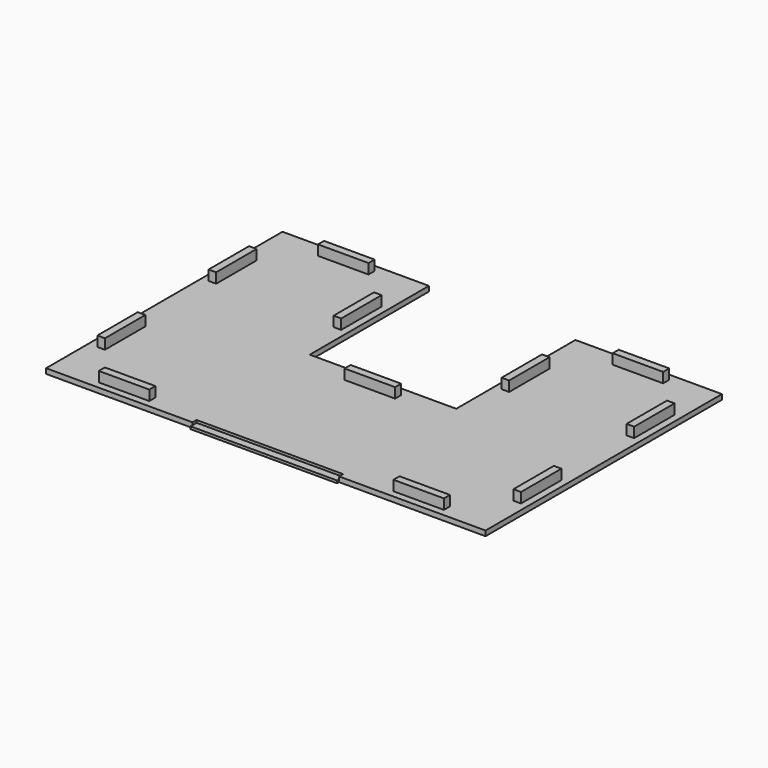
from build123d import *

# Parameters (mm, degrees)
BOX013_W     = 20
BOX013_H     = 3
BOX013_DEPTH = 6
BOX012_W     = 20
BOX012_H     = 3
BOX012_DEPTH = 6
BOX011_W     = 20
BOX011_H     = 3
BOX011_DEPTH = 6
BOX010_W     = 20
BOX010_H     = 3
BOX010_DEPTH = 6
BOX009_W     = 20
BOX009_H     = 3
BOX009_DEPTH = 6
BOX008_W     = 20
BOX008_H     = 3
BOX008_DEPTH = 6
BOX007_W     = 20
BOX007_H     = 3
BOX007_DEPTH = 6
BOX006_W     = 20
BOX006_H     = 3
BOX006_DEPTH = 6
BOX005_W     = 20
BOX005_H     = 3
BOX005_DEPTH = 6
BOX004_W     = 20
BOX004_H     = 3
BOX004_DEPTH = 6
BOX003_W     = 20
BOX003_H     = 3
BOX003_DEPTH = 6
BOX002_W     = 58
BOX002_H     = 117
BOX002_DEPTH = 2
BOX001_W     = 58
BOX001_H     = 117
BOX001_DEPTH = 2
BOX_W        = 58
BOX_H        = 56
BOX_DEPTH    = 2
BOX014_W     = 58
BOX014_H     = 3
BOX014_DEPTH = 1


with BuildPart() as cube013:
    # Box013 → Box013 (new body)
    with BuildSketch(Plane(origin=(77, 51.5, 0), x_dir=(1, 0, 0), z_dir=(0, 0, 1))):
        with Locations((10, 1.5)):
            Rectangle(BOX013_W, BOX013_H)
    extrude(amount=BOX013_DEPTH)


with BuildPart() as cube012:
    # Box012 → Box012 (new body)
    with BuildSketch(Plane(origin=(3.5, 41, 0), x_dir=(0, -1, 0), z_dir=(0, 0, 1))):
        with Locations((10, 1.5)):
            Rectangle(BOX012_W, BOX012_H)
    extrude(amount=BOX012_DEPTH)


with BuildPart() as cube011:
    # Box011 → Box011 (new body)
    with BuildSketch(Plane(origin=(2.75, 97, 0), x_dir=(0, -1, 0), z_dir=(0, 0, 1))):
        with Locations((10, 1.5)):
            Rectangle(BOX011_W, BOX011_H)
    extrude(amount=BOX011_DEPTH)


with BuildPart() as cube010:
    # Box010 → Box010 (new body)
    with BuildSketch(Plane(origin=(52.25, 97, 0), x_dir=(0, -1, 0), z_dir=(0, 0, 1))):
        with Locations((10, 1.5)):
            Rectangle(BOX010_W, BOX010_H)
    extrude(amount=BOX010_DEPTH)


with BuildPart() as cube009:
    # Box009 → Box009 (new body)
    with BuildSketch(Plane(origin=(168.25, 97, 0), x_dir=(0, -1, 0), z_dir=(0, 0, 1))):
        with Locations((10, 1.5)):
            Rectangle(BOX009_W, BOX009_H)
    extrude(amount=BOX009_DEPTH)


with BuildPart() as cube008:
    # Box008 → Box008 (new body)
    with BuildSketch(Plane(origin=(168.25, 41, 0), x_dir=(0, -1, 0), z_dir=(0, 0, 1))):
        with Locations((10, 1.5)):
            Rectangle(BOX008_W, BOX008_H)
    extrude(amount=BOX008_DEPTH)


with BuildPart() as cube007:
    # Box007 → Box007 (new body)
    with BuildSketch(Plane(origin=(118.75, 97, 0), x_dir=(0, -1, 0), z_dir=(0, 0, 1))):
        with Locations((10, 1.5)):
            Rectangle(BOX007_W, BOX007_H)
    extrude(amount=BOX007_DEPTH)


with BuildPart() as cube006:
    # Box006 → Box006 (new body)
    with BuildSketch(Plane(origin=(135.333, 111.25, 0), x_dir=(1, 0, 0), z_dir=(0, 0, 1))):
        with Locations((10, 1.5)):
            Rectangle(BOX006_W, BOX006_H)
    extrude(amount=BOX006_DEPTH)


with BuildPart() as cube005:
    # Box005 → Box005 (new body)
    with BuildSketch(Plane(origin=(135.333, 2.75, 0), x_dir=(1, 0, 0), z_dir=(0, 0, 1))):
        with Locations((10, 1.5)):
            Rectangle(BOX005_W, BOX005_H)
    extrude(amount=BOX005_DEPTH)


with BuildPart() as cube004:
    # Box004 → Box004 (new body)
    with BuildSketch(Plane(origin=(18.67, 2.75, 0), x_dir=(1, 0, 0), z_dir=(0, 0, 1))):
        with Locations((10, 1.5)):
            Rectangle(BOX004_W, BOX004_H)
    extrude(amount=BOX004_DEPTH)


with BuildPart() as cube003:
    # Box003 → Box003 (new body)
    with BuildSketch(Plane(origin=(18.67, 111.25, 0), x_dir=(1, 0, 0), z_dir=(0, 0, 1))):
        with Locations((10, 1.5)):
            Rectangle(BOX003_W, BOX003_H)
    extrude(amount=BOX003_DEPTH)


with BuildPart() as cube002:
    # Box002 → Box002 (new body)
    with BuildSketch(Plane(origin=(116, 0, 0), x_dir=(1, 0, 0), z_dir=(0, 0, 1))):
        with Locations((29, 58.5)):
            Rectangle(BOX002_W, BOX002_H)
    extrude(amount=BOX002_DEPTH)


with BuildPart() as cube001:
    # Box001 → Box001 (new body)
    with BuildSketch(Plane.XY):
        with Locations((29, 58.5)):
            Rectangle(BOX001_W, BOX001_H)
    extrude(amount=BOX001_DEPTH)


with BuildPart() as cube:
    # Box → Box (new body)
    with BuildSketch(Plane(origin=(58, 2, 0), x_dir=(1, 0, 0), z_dir=(0, 0, 1))):
        with Locations((29, 28)):
            Rectangle(BOX_W, BOX_H)
    extrude(amount=BOX_DEPTH)


with BuildPart() as fusion:
    # Box014 → Box014 (new body)
    with BuildSketch(Plane(origin=(58, -1, 0), x_dir=(1, 0, 0), z_dir=(0, 0, 1))):
        with Locations((29, 1.5)):
            Rectangle(BOX014_W, BOX014_H)
    extrude(amount=BOX014_DEPTH)

    # Fusion: union Cube013, Cube012, Cube011, Cube010, Cube009, Cube008, Cube007, Cube006, Cube005, Cube004, Cube003, Cube002, Cube001, Cube
    add(cube013.part)
    add(cube012.part)
    add(cube011.part)
    add(cube010.part)
    add(cube009.part)
    add(cube008.part)
    add(cube007.part)
    add(cube006.part)
    add(cube005.part)
    add(cube004.part)
    add(cube003.part)
    add(cube002.part)
    add(cube001.part)
    add(cube.part)


solid = fusion.part
